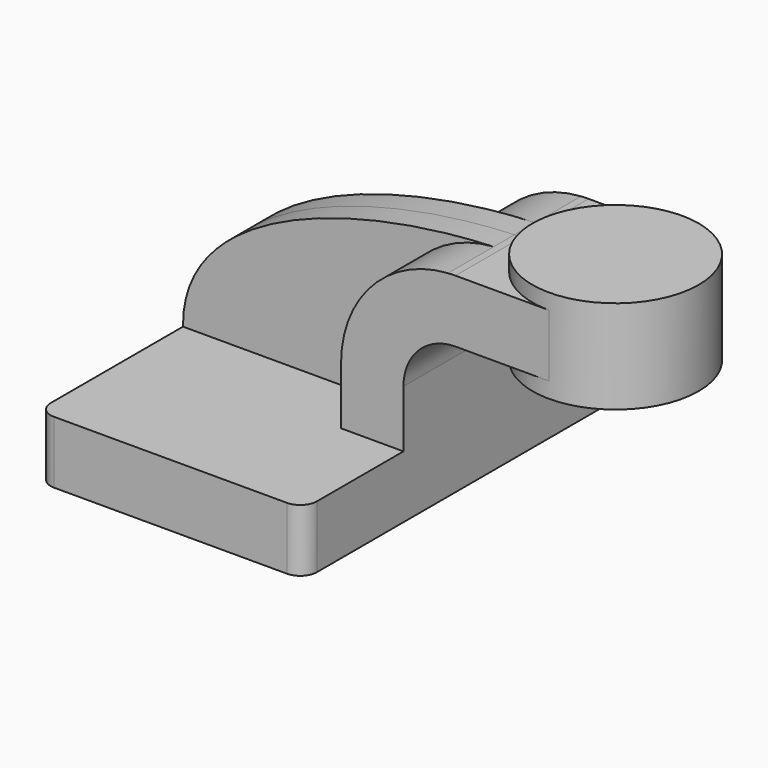
from build123d import *

# Parameters (mm, degrees)
F1_DEPTH = 63.5
F0_W     = 25.4
F0_H     = 19.05
F2_DEPTH = 25.4
F3_DEPTH = 7.9375
F5_R     = 5.08


with BuildPart() as f1:
    # F0 (on Front) → F1 (new body, symmetric)
    with BuildSketch(Plane.XZ):
        Polygon((-40.64, -9.525), (40.64, -9.525), (40.64, 9.525), (21.59, 9.525), (-40.64, 9.525), align=None)
    extrude(amount=F1_DEPTH, both=True)

    # F0 (on Front) → F2 (join, symmetric)
    with BuildSketch(Plane.XZ):
        with BuildLine():
            Line((21.59, 9.525), (40.64, 9.525))
            Line((40.64, 9.525), (40.64, 27.0002))
            ThreePointArc((40.64, 27.0002), (45.2896798487, 38.2255201513), (56.515, 42.8752))
            Line((56.515, 42.8752), (59.69, 42.8752))
            Line((59.69, 42.8752), (59.69, 61.9252))
            Line((59.69, 61.9252), (56.515, 61.9252))
            add(Edge.make_bspline(
                [(54.2219074178, 61.8498391862), (54.9893867165, 61.8796257913), (55.7538691041, 61.9047396182), (56.515, 61.9252)],
                knots=[108.4478759143, 108.4478759143, 108.4478759143, 108.4478759143, 110.3851212122, 110.3851212122, 110.3851212122, 110.3851212122], degree=3))
            ThreePointArc((54.2219074178, 61.8498391862), (31.0214529397, 50.8714103439), (21.59, 27.0002))
            Line((21.59, 27.0002), (21.59, 9.525))
        make_face()
        with Locations((72.39, 52.4002)):
            Rectangle(F0_W, F0_H)
    extrude(amount=F2_DEPTH, both=True)

    # F0 (on Front) → F3 (join, symmetric)
    with BuildSketch(Plane.XZ):
        with BuildLine():
            add(Edge.make_bspline(
                [(-40.64, 9.525), (-41.0975294975, 43.8712979723), (11.2580660134, 60.1823714415), (54.2219074178, 61.8498391862)],
                knots=[0, 0, 0, 0, 108.4478759143, 108.4478759143, 108.4478759143, 108.4478759143], degree=3))
            Line((-40.64, 9.525), (21.59, 9.525))
            Line((21.59, 9.525), (21.59, 27.0002))
            ThreePointArc((21.59, 27.0002), (31.0214529397, 50.8714103439), (54.2219074178, 61.8498391862))
        make_face()
    extrude(amount=F3_DEPTH, both=True)

    # F5
    f5_edges = [f1.edges().sort_by_distance(p)[0] for p in [
        (40.64, -63.5, 0),
        (-40.64, -63.5, 0),
        (-40.64, 63.5, 0),
        (40.64, 63.5, 0),
    ]]
    fillet(f5_edges, radius=F5_R)


with BuildPart() as f4:
    # F0 (on Front) → F4 (revolve)
    with BuildSketch(Plane.XZ):
        Polygon((85.09, 61.9252), (85.09, 42.8752), (85.09, 38.1), (110.49, 38.1), (110.49, 66.675), (85.09, 66.675), align=None)
    revolve(axis=Axis((85.09, 0, 52.3875), (0, 0, 1)))


solid = Compound([f1.part, f4.part])
